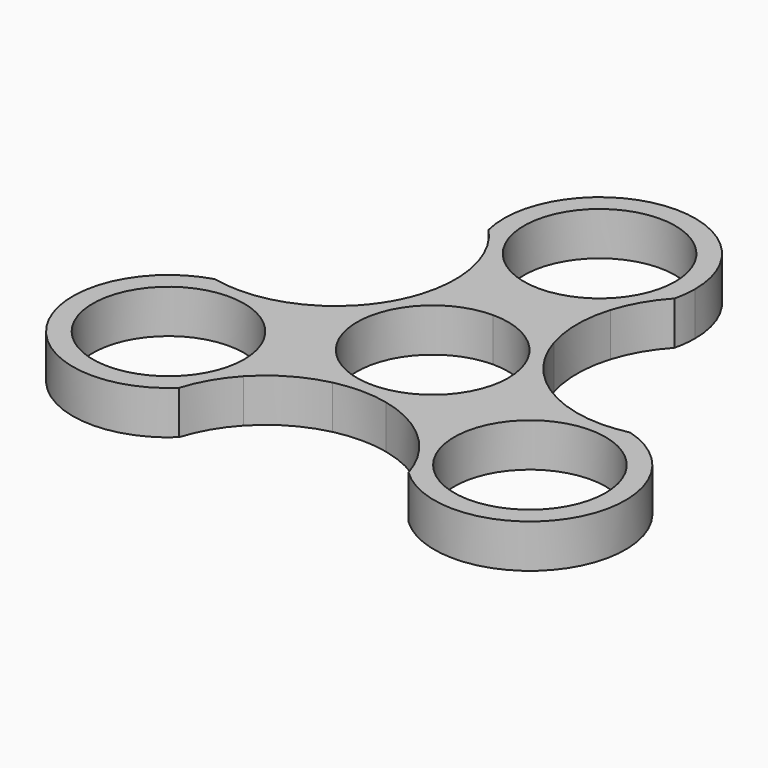
from build123d import *

# Parameters (mm, degrees)
F0_R     = 11.049
F1_DEPTH = 6.35


with BuildPart() as f1:
    # F0 (on Top) → F1 (new body)
    with BuildSketch(Plane.XY):
        with BuildLine():
            ThreePointArc((-9.6613689552, 10.0581323476), (-5.2072629381, 12.9380249306), (0, 13.9466152313))
            Line((0, 13.9466152313), (0, 16.51))
            ThreePointArc((0, 16.51), (-5.1964942775, 17.5124502228), (-9.6472152055, 20.375934542))
            ThreePointArc((-9.6472152055, 20.375934542), (-8.8774858284, 15.2159678379), (-9.6613689552, 10.0581323476))
        make_face()
        with BuildLine():
            Line((0, 16.51), (0, 13.9466152313))
            ThreePointArc((0, 13.9466152313), (5.2072629381, 12.9380249306), (9.6613689552, 10.0581323476))
            ThreePointArc((9.6613689552, 10.0581323476), (8.8774858284, 15.2159678379), (9.6472152055, 20.375934542))
            ThreePointArc((9.6472152055, 20.375934542), (5.1964942775, 17.5124502228), (0, 16.51))
        make_face()
        with BuildLine():
            ThreePointArc((-3.8799136501, -13.3960571243), (-12.0781230871, -6.9733076156), (-13.5412826052, 3.3379247767))
            ThreePointArc((-13.5412826052, 3.3379247767), (-17.616157605, 0.0801443302), (-22.4696845419, -1.8332338273))
            ThreePointArc((-22.4696845419, -1.8332338273), (-15.2157147606, -6.8643231206), (-12.4264543073, -15.24))
            ThreePointArc((-12.4264543073, -15.24), (-12.5258113871, -16.9031791781), (-12.8224693365, -18.5427007147))
            ThreePointArc((-12.8224693365, -18.5427007147), (-8.7386717766, -15.2961121681), (-3.8799136501, -13.3960571243))
        make_face()
        with BuildLine():
            ThreePointArc((22.4696845419, -1.8332338273), (17.616157605, 0.0801443302), (13.5412826052, 3.3379247767))
            ThreePointArc((13.5412826052, 3.3379247767), (13.8449112428, 1.6812224981), (13.9466152313, 0))
            ThreePointArc((13.9466152313, 0), (11.1494336004, -8.3784370142), (3.8799136501, -13.3960571243))
            ThreePointArc((3.8799136501, -13.3960571243), (8.7386717766, -15.2961121681), (12.8224693365, -18.5427007147))
            ThreePointArc((12.8224693365, -18.5427007147), (14.2980794165, -8.255), (22.4696845419, -1.8332338273))
        make_face()
        with BuildLine():
            ThreePointArc((30.3232240728, -1.8332338273), (26.3964543073, -2.2789849624), (22.4696845419, -1.8332338273))
            ThreePointArc((22.4696845419, -1.8332338273), (14.2980794165, -8.255), (12.8224693365, -18.5427007147))
            ThreePointArc((12.8224693365, -18.5427007147), (15.1718860259, -21.7205075188), (16.7492391019, -25.344065458))
            ThreePointArc((16.7492391019, -25.344065458), (38.4948291982, -22.225), (30.3232240728, -1.8332338273))
        make_face()
        with Locations((26.3964543073, -15.24)):
            Circle(F0_R, mode=Mode.SUBTRACT)
        with BuildLine():
            ThreePointArc((-12.4264543073, -15.24), (-15.2157147606, -6.8643231206), (-22.4696845419, -1.8332338273))
            ThreePointArc((-22.4696845419, -1.8332338273), (-26.3964543073, -2.2789849624), (-30.3232240728, -1.8332338273))
            ThreePointArc((-30.3232240728, -1.8332338273), (-38.4948291982, -22.225), (-16.7492391019, -25.344065458))
            ThreePointArc((-16.7492391019, -25.344065458), (-15.1718860259, -21.7205075188), (-12.8224693365, -18.5427007147))
            ThreePointArc((-12.8224693365, -18.5427007147), (-12.5258113871, -16.9031791781), (-12.4264543073, -15.24))
        make_face()
        with Locations((-26.3964543073, -15.24)):
            Circle(F0_R, mode=Mode.SUBTRACT)
        with BuildLine():
            ThreePointArc((-9.6472152055, 20.375934542), (-5.1964942775, 17.5124502228), (0, 16.51))
            ThreePointArc((0, 16.51), (5.1964942775, 17.5124502228), (9.6472152055, 20.375934542))
            ThreePointArc((9.6472152055, 20.375934542), (11.2245682814, 23.9994924812), (13.5739849709, 27.1772992853))
            ThreePointArc((13.5739849709, 27.1772992853), (13.8706429203, 28.8168208219), (13.97, 30.48))
            ThreePointArc((13.97, 30.48), (-1.6631791781, 44.3506429203), (-13.5739849709, 27.1772992853))
            ThreePointArc((-13.5739849709, 27.1772992853), (-11.2245682814, 23.9994924812), (-9.6472152055, 20.375934542))
        make_face()
        with BuildLine():
            ThreePointArc((11.049, 30.48), (7.8128228253, 22.6671771747), (0, 19.431))
            ThreePointArc((0, 19.431), (-7.8128228253, 38.2928228253), (11.049, 30.48))
        make_face(mode=Mode.SUBTRACT)
        with BuildLine():
            ThreePointArc((0, 11.049), (7.8128228253, 7.8128228253), (11.049, 0))
            ThreePointArc((11.049, 0), (-2.8596916293, -10.6725144547), (-9.5687146864, 5.5245))
            Line((-9.5687146864, 5.5245), (-11.2245682814, 6.4805075188))
            ThreePointArc((-11.2245682814, 6.4805075188), (-12.295108705, 4.8444775833), (-13.5412826052, 3.3379247767))
            ThreePointArc((-13.5412826052, 3.3379247767), (-12.0781230871, -6.9733076156), (-3.8799136501, -13.3960571243))
            ThreePointArc((-3.8799136501, -13.3960571243), (0, -12.9610150376), (3.8799136501, -13.3960571243))
            ThreePointArc((3.8799136501, -13.3960571243), (11.1494336004, -8.3784370142), (13.9466152313, 0))
            ThreePointArc((13.9466152313, 0), (13.8449112428, 1.6812224981), (13.5412826052, 3.3379247767))
            ThreePointArc((13.5412826052, 3.3379247767), (11.2245682814, 6.4805075188), (9.6613689552, 10.0581323476))
            ThreePointArc((9.6613689552, 10.0581323476), (5.2072629381, 12.9380249306), (0, 13.9466152313))
            Line((0, 13.9466152313), (0, 11.049))
        make_face()
        with BuildLine():
            ThreePointArc((-9.5687146864, 5.5245), (-5.5245, 9.5687146864), (0, 11.049))
            Line((0, 11.049), (0, 13.9466152313))
            ThreePointArc((0, 13.9466152313), (-5.2072629381, 12.9380249306), (-9.6613689552, 10.0581323476))
            ThreePointArc((-9.6613689552, 10.0581323476), (-10.3429950077, 8.2256376892), (-11.2245682814, 6.4805075188))
            Line((-11.2245682814, 6.4805075188), (-9.5687146864, 5.5245))
        make_face()
    extrude(amount=F1_DEPTH)


solid = f1.part
